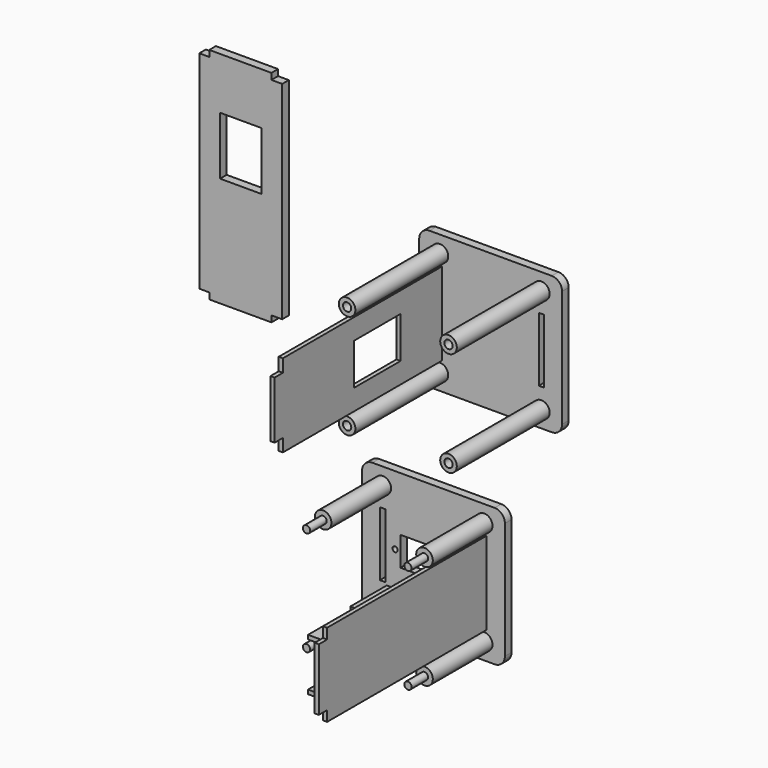
from build123d import *

# Parameters (mm, degrees)
F0_R      = 4
F0_R_2    = 2
F1_DEPTH  = 60
F0_W      = 20
F0_H      = 28
F0_W_2    = 2
F0_H_2    = 40
F0_W_3    = 2.5
F0_H_3    = 31
F0_W_4    = 2.8
F0_R_3    = 1.25
F0_R_4    = 1.75
F2_DEPTH  = 4
F3_DEPTH  = 100
F4_W      = 30
F4_H      = 2
F5_DEPTH  = 5
F4_W_2    = 5
F4_H_2    = 27.662858
F6_DEPTH  = 2
F4_W_3    = 28
F4_H_3    = 20
F7_DEPTH  = 2
F8_DEPTH  = 50
F9_DEPTH  = 40
F10_DEPTH = 100
F11_W     = 78
F11_H     = 2
F12_DEPTH = 8
F13_W     = 2
F13_H     = 30
F14_DEPTH = 5
F15_W     = 22
F15_H     = 2
F15_H_2   = 0.5
F15_H_3   = 2.5
F16_DEPTH = 2


with BuildPart() as f1:
    # F0 (on Front) → F1 (new body)
    with BuildSketch(Plane.XZ):
        with Locations((-123.015862, 83.04912)):
            Circle(F0_R)
        with Locations((-123.015862, 83.04912)):
            Circle(F0_R_2, mode=Mode.SUBTRACT)
        with Locations((-74.08206, 83.04912)):
            Circle(F0_R)
        with Locations((-74.08206, 83.04912)):
            Circle(F0_R_2, mode=Mode.SUBTRACT)
        with Locations((-74.08206, 32.60514)):
            Circle(F0_R)
        with Locations((-74.08206, 32.60514)):
            Circle(F0_R_2, mode=Mode.SUBTRACT)
        with Locations((-123.015862, 32.60514)):
            Circle(F0_R)
        with Locations((-123.015862, 32.60514)):
            Circle(F0_R_2, mode=Mode.SUBTRACT)
    extrude(amount=F1_DEPTH)


with BuildPart() as f2:
    # F0 (on Front) → F2 (new body)
    with BuildSketch(Plane.XZ):
        Polygon((-204.331727, 30.283207), (-199.143342, 30.283207), (-199.143342, 130.283207), (-204.331727, 130.283207), (-204.331727, 133.283207), (-234.331727, 133.283207), (-234.331727, 130.283207), (-239.143342, 130.283207), (-239.143342, 30.283207), (-234.331727, 30.283207), (-234.331727, 27.283207), (-204.331727, 27.283207), align=None)
        with Locations((-219.143342, 94.283207)):
            Rectangle(F0_W, F0_H, mode=Mode.SUBTRACT)
        with BuildLine():
            ThreePointArc((-64.08206, 86.04912), (-65.546526, 89.584654), (-69.08206, 91.04912))
            Line((-69.08206, 91.04912), (-128.015862, 91.04912))
            ThreePointArc((-128.015862, 91.04912), (-131.551396, 89.584654), (-133.015862, 86.04912))
            Line((-133.015862, 86.04912), (-133.015862, 29.60514))
            ThreePointArc((-133.015862, 29.60514), (-131.551396, 26.069606), (-128.015862, 24.60514))
            Line((-128.015862, 24.60514), (-69.08206, 24.60514))
            ThreePointArc((-69.08206, 24.60514), (-65.546526, 26.069606), (-64.08206, 29.60514))
            Line((-64.08206, 29.60514), (-64.08206, 86.04912))
        make_face()
        with Locations((-123.015862, 32.60514)):
            Circle(F0_R, mode=Mode.SUBTRACT)
        with Locations((-123.015862, 57.82713)):
            Rectangle(F0_W_2, F0_H_2, mode=Mode.SUBTRACT)
        with Locations((-74.08206, 32.60514)):
            Circle(F0_R, mode=Mode.SUBTRACT)
        with Locations((-74.08206, 57.82713)):
            Rectangle(F0_W_3, F0_H_3, mode=Mode.SUBTRACT)
        with Locations((-123.015862, 83.04912)):
            Circle(F0_R, mode=Mode.SUBTRACT)
        with Locations((-74.08206, 83.04912)):
            Circle(F0_R, mode=Mode.SUBTRACT)
        with BuildLine():
            ThreePointArc((-91.662278, -21.477848), (-93.126744, -17.942314), (-96.662278, -16.477848))
            Line((-96.662278, -16.477848), (-155.59608, -16.477848))
            ThreePointArc((-155.59608, -16.477848), (-159.131614, -17.942314), (-160.59608, -21.477848))
            Line((-160.59608, -21.477848), (-160.59608, -77.921828))
            ThreePointArc((-160.59608, -77.921828), (-159.131614, -81.457362), (-155.59608, -82.921828))
            Line((-155.59608, -82.921828), (-96.662278, -82.921828))
            ThreePointArc((-96.662278, -82.921828), (-93.126744, -81.457362), (-91.662278, -77.921828))
            Line((-91.662278, -77.921828), (-91.662278, -21.477848))
        make_face()
        with Locations((-150.59608, -74.921828)):
            Circle(F0_R, mode=Mode.SUBTRACT)
        with Locations((-150.59608, -49.699838)):
            Rectangle(F0_W_4, F0_H_3, mode=Mode.SUBTRACT)
        with Locations((-144.659179, -49.699838)):
            Circle(F0_R_3, mode=Mode.SUBTRACT)
        Polygon((-142.129179, -42.699838), (-118.129179, -42.699838), (-118.129179, -46.699838), (-117.129179, -46.699838), (-117.129179, -52.699838), (-118.129179, -52.699838), (-118.129179, -56.699838), (-142.129179, -56.699838), align=None, mode=Mode.SUBTRACT)
        with Locations((-115.129179, -49.699838)):
            Circle(F0_R_3, mode=Mode.SUBTRACT)
        with Locations((-101.662278, -74.921828)):
            Circle(F0_R, mode=Mode.SUBTRACT)
        with Locations((-101.662278, -49.699838)):
            Rectangle(F0_W_2, F0_H_2, mode=Mode.SUBTRACT)
        with Locations((-150.59608, -24.477848)):
            Circle(F0_R, mode=Mode.SUBTRACT)
        with Locations((-101.662278, -24.477848)):
            Circle(F0_R, mode=Mode.SUBTRACT)
        with Locations((-101.662278, -49.699838)):
            Rectangle(F0_W_2, F0_H_2)
        with Locations((-101.662278, -24.477848)):
            Circle(F0_R)
        with Locations((-101.662278, -24.477848)):
            Circle(F0_R_4, mode=Mode.SUBTRACT)
        with Locations((-150.59608, -24.477848)):
            Circle(F0_R)
        with Locations((-150.59608, -24.477848)):
            Circle(F0_R_4, mode=Mode.SUBTRACT)
        with Locations((-150.59608, -74.921828)):
            Circle(F0_R)
        with Locations((-150.59608, -74.921828)):
            Circle(F0_R_4, mode=Mode.SUBTRACT)
        with Locations((-101.662278, -74.921828)):
            Circle(F0_R)
        with Locations((-101.662278, -74.921828)):
            Circle(F0_R_4, mode=Mode.SUBTRACT)
    extrude(amount=F2_DEPTH)

    # F0 (on Front) → F3 (join)
    with BuildSketch(Plane.XZ):
        with Locations((-123.015862, 57.82713)):
            Rectangle(F0_W_2, F0_H_2)
    extrude(amount=F3_DEPTH)

    # F4 (on face) → F5 (join)
    with BuildSketch(Plane(origin=(-124.015862, 0, 0), x_dir=(0, -1, 0), z_dir=(-1, 0, 0))):
        with Locations((66.701345, 70.336178)):
            Rectangle(F4_W, F4_H)
        with Locations((66.701345, 45.336178)):
            Rectangle(F4_W, F4_H)
    extrude(amount=F5_DEPTH)

    # F4 (on face) → F6 (join)
    with BuildSketch(Plane(origin=(-124.015862, 0, 0), x_dir=(0, -1, 0), z_dir=(-1, 0, 0))):
        with Locations((102.5, 57.82713)):
            Rectangle(F4_W_2, F4_H_2)
    extrude(amount=-F6_DEPTH)

    # F4 (on face) → F7 (cut)
    with BuildSketch(Plane(origin=(-124.015862, 0, 0), x_dir=(0, -1, 0), z_dir=(-1, 0, 0))):
        with Locations((43, 57.82713)):
            Rectangle(F4_W_3, F4_H_3)
    extrude(amount=-F7_DEPTH, mode=Mode.SUBTRACT)

    # F0 (on Front) → F8 (join)
    with BuildSketch(Plane.XZ):
        with Locations((-150.59608, -24.477848)):
            Circle(F0_R_4)
        with Locations((-101.662278, -24.477848)):
            Circle(F0_R_4)
        with Locations((-101.662278, -74.921828)):
            Circle(F0_R_4)
        with Locations((-150.59608, -74.921828)):
            Circle(F0_R_4)
    extrude(amount=F8_DEPTH)

    # F0 (on Front) → F9 (join)
    with BuildSketch(Plane.XZ):
        with Locations((-150.59608, -24.477848)):
            Circle(F0_R)
        with Locations((-150.59608, -24.477848)):
            Circle(F0_R_4, mode=Mode.SUBTRACT)
        with Locations((-150.59608, -74.921828)):
            Circle(F0_R)
        with Locations((-150.59608, -74.921828)):
            Circle(F0_R_4, mode=Mode.SUBTRACT)
        with Locations((-101.662278, -74.921828)):
            Circle(F0_R)
        with Locations((-101.662278, -74.921828)):
            Circle(F0_R_4, mode=Mode.SUBTRACT)
        with Locations((-101.662278, -24.477848)):
            Circle(F0_R)
        with Locations((-101.662278, -24.477848)):
            Circle(F0_R_4, mode=Mode.SUBTRACT)
    extrude(amount=F9_DEPTH)

    # F0 (on Front) → F10 (join)
    with BuildSketch(Plane.XZ):
        with Locations((-101.662278, -49.699838)):
            Rectangle(F0_W_2, F0_H_2)
    extrude(amount=F10_DEPTH)

    # F11 (on face) → F12 (join)
    with BuildSketch(Plane(origin=(-102.662278, 0, 0), x_dir=(0, -1, 0), z_dir=(-1, 0, 0))):
        with Locations((60, -37.342025)):
            Rectangle(F11_W, F11_H)
        with Locations((60, -60.592025)):
            Rectangle(F11_W, F11_H)
    extrude(amount=F12_DEPTH)

    # F13 (on face) → F14 (join)
    with BuildSketch(Plane.XZ.offset(100)):
        with Locations((-101.662278, -49.699838)):
            Rectangle(F13_W, F13_H)
    extrude(amount=F14_DEPTH)

    # F15 (on face) → F16 (join)
    with BuildSketch(Plane(origin=(-110.662278, 0, 0), x_dir=(0, -1, 0), z_dir=(-1, 0, 0))):
        with Locations((60, -37.342025)):
            Rectangle(F15_W, F15_H)
        with Locations((60, -38.592025)):
            Rectangle(F15_W, F15_H_2)
        with Locations((60, -59.346303)):
            Rectangle(F15_W, F15_H_3)
    extrude(amount=F16_DEPTH)


solid = Compound([f1.part, f2.part])
